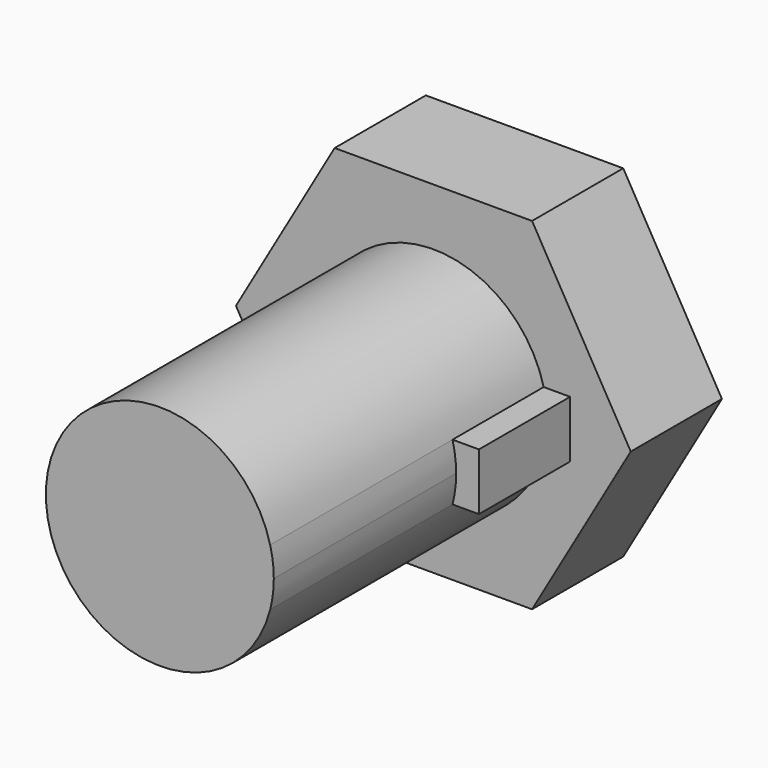
from build123d import *

# Parameters (mm, degrees)
F1_DEPTH = 762
F2_DEPTH = 254
F4_DEPTH = 254


with BuildPart() as f1:
    # F0 (on Front) → F1 (new body)
    with BuildSketch(Plane.XZ):
        with BuildLine():
            ThreePointArc((254, 0), (251.975543, 32.00509), (245.934442, 63.5))
            ThreePointArc((245.934442, 63.5), (-254, 0), (245.934442, -63.5))
            ThreePointArc((245.934442, -63.5), (251.975543, -32.00509), (254, 0))
        make_face()
    extrude(amount=F1_DEPTH)

    # F0 (on Front) → F2 (join)
    with BuildSketch(Plane.XZ):
        with BuildLine():
            Line((304.8, 63.5), (245.934442, 63.5))
            ThreePointArc((245.934442, 63.5), (251.975543, 32.00509), (254, 0))
            ThreePointArc((254, 0), (251.975543, -32.00509), (245.934442, -63.5))
            Line((245.934442, -63.5), (304.8, -63.5))
            Line((304.8, -63.5), (304.8, 63.5))
        make_face()
    extrude(amount=F2_DEPTH)

    # F3 (on face) + F0 (on Front) → F4 (join)
    with BuildSketch(Plane.XZ):
        Polygon((219.970453, 381), (-219.970453, 381), (-439.940905, 0), (-219.970453, -381), (219.970453, -381), (439.940905, 0), align=None)
    with BuildSketch(Plane.XZ):
        Polygon((219.970453, 381), (-219.970453, 381), (-439.940905, 0), (-219.970453, -381), (219.970453, -381), (439.940905, 0), align=None)
        with BuildLine():
            ThreePointArc((245.934442, -63.5), (-254, 0), (245.934442, 63.5))
            Line((245.934442, 63.5), (304.8, 63.5))
            Line((304.8, 63.5), (304.8, -63.5))
            Line((304.8, -63.5), (245.934442, -63.5))
        make_face(mode=Mode.SUBTRACT)
    extrude(amount=-F4_DEPTH)


solid = f1.part
